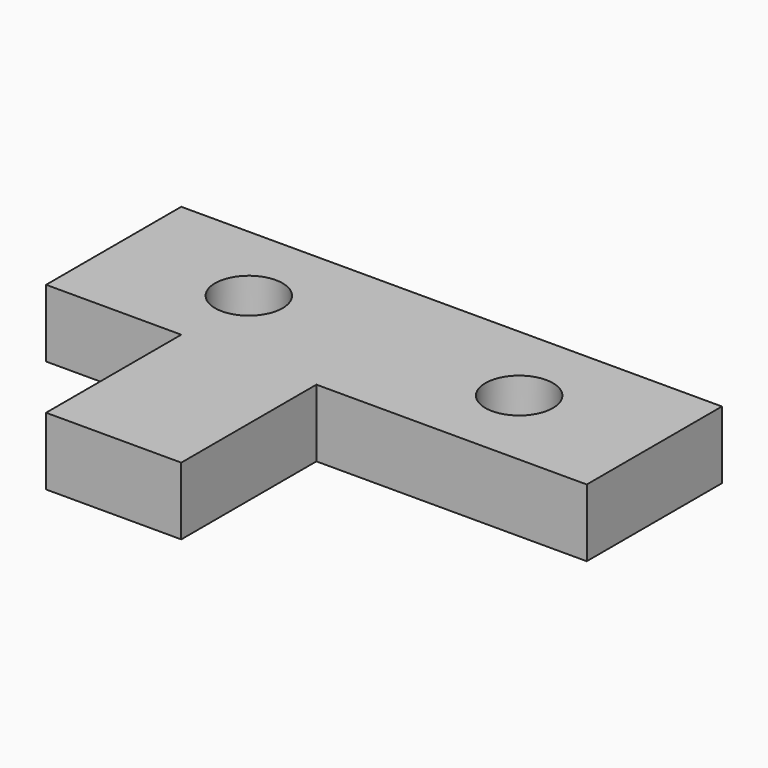
from build123d import *

# Parameters (mm, degrees)
F0_R     = 5
F0_W     = 40
F0_H     = 25
F0_W_2   = 20
F1_DEPTH = 10


with BuildPart() as f1:
    # F0 (on Top) → F1 (new body)
    with BuildSketch(Plane.XY):
        Polygon((-26.600002, 18.249999), (-66.600002, 18.249999), (-66.600002, -6.750001), (-46.600002, -6.750001), (-26.600002, -6.750001), align=None)
        with Locations((-46.600002, 5.749999)):
            Circle(F0_R, mode=Mode.SUBTRACT)
        with Locations((-6.600002, 5.749999)):
            Rectangle(F0_W, F0_H)
        with Locations((-6.600002, 5.749999)):
            Circle(F0_R, mode=Mode.SUBTRACT)
        with Locations((-36.600002, -19.250001)):
            Rectangle(F0_W_2, F0_H)
    extrude(amount=F1_DEPTH)


solid = f1.part
